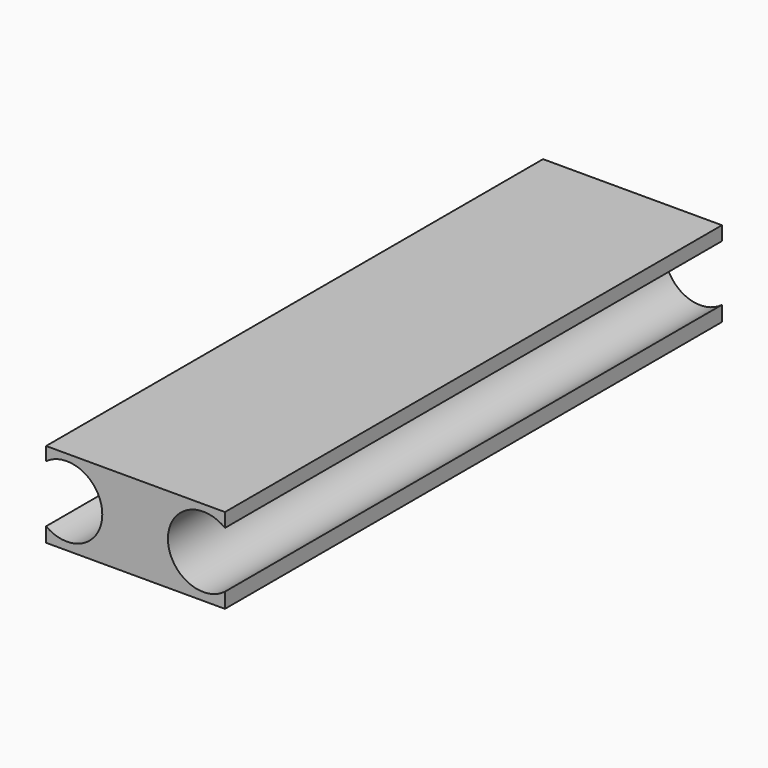
from build123d import *

# Parameters (mm, degrees)
F0_W     = 7.31414
F0_H     = 3.485261
F1_DEPTH = 25.4
F3_D     = 2.8956
F5_D     = 2.8956


with BuildPart() as f1:
    # F0 (on Front) → F1 (new body)
    with BuildSketch(Plane.XZ):
        with Locations((-27.067565, 16.338196)):
            Rectangle(F0_W, F0_H)
    extrude(amount=F1_DEPTH)

    # F3 (through all)
    with Locations(Plane.XZ.offset(25.4)):
        with Locations((-29.874383, 16.361794)):
            Hole(F3_D / 2)

    # F5 (through all)
    with Locations(Plane.XZ.offset(25.4)):
        with Locations((-24.294116, 16.361794)):
            Hole(F5_D / 2)


solid = f1.part
